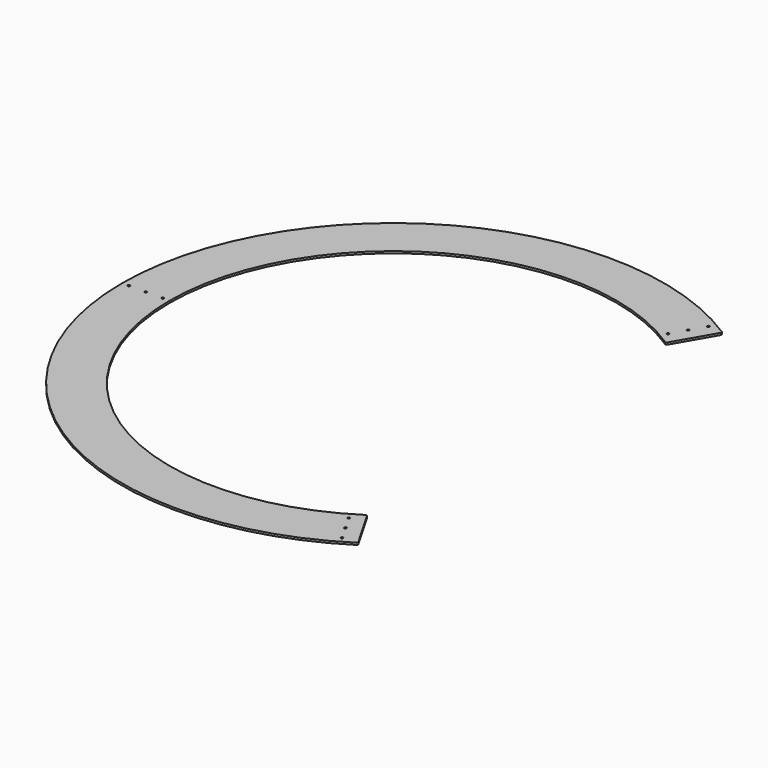
from build123d import *

# Parameters (mm, degrees)
PAD015_DEPTH             = 3
SKETCH096_R              = 1.7
POCKET062_DEPTH          = 2019.841851
POCKET062_DEPTH_BACK     = 2022.841851
POLARPATTERN017_COUNT    = 3
CLONE004_PLACEMENT_ANGLE = 90


with BuildPart() as part:
    # Sketch095 → Pad015 (new body)
    with BuildSketch(Plane.XY):
        with BuildLine():
            ThreePointArc((337.01048, -215.462146), (350.845307, 192.113432), (0, 400))
            Line((0, 330), (0, 400))
            ThreePointArc((276.422258, -180.251866), (290.157816, 157.189192), (0, 330))
            ThreePointArc((276.422258, -180.251866), (276.152366, -181.809361), (277.097544, -183.076353))
            Line((277.097544, -183.076353), (334.325427, -216.116886))
            ThreePointArc((334.325427, -216.116886), (335.799237, -216.327901), (337.01048, -215.462146))
        make_face()
    pad015 = extrude(amount=PAD015_DEPTH)

    # Mirrored026: Pad015 across Sketch095 V_Axis
    add(pad015.mirror(Plane(origin=(0, 0, 0), x_dir=(0, 0, 1), z_dir=(1, 0, 0))))

    # Sketch096 → Pocket062 (cut, two sides)
    with BuildSketch(Plane(origin=(0, 330, 0), x_dir=(1, 0, 0), z_dir=(0, 0, 1))) as pocket062_sk:
        with Locations((0, 10)):
            Circle(SKETCH096_R)
        with Locations((0, 35)):
            Circle(SKETCH096_R)
        with Locations((0, 60)):
            Circle(SKETCH096_R)
    pocket062 = extrude(amount=-POCKET062_DEPTH, mode=Mode.SUBTRACT) + extrude(pocket062_sk.sketch, amount=POCKET062_DEPTH_BACK, mode=Mode.SUBTRACT)

    # PolarPattern017: Pocket062 ×3 about axis
    polarpattern017_axis = Axis((0, 0, 0), (0, 0, 1))
    for i in range(1, POLARPATTERN017_COUNT):
        add(pocket062.rotate(polarpattern017_axis, i * 360 / POLARPATTERN017_COUNT), mode=Mode.SUBTRACT)


with BuildPart() as part_1:
    # Clone004 placement: moved
    add(part.part.moved(Location((-216.377145, 400, 0))).rotate(Axis((-216.377145, 400, 0), (0, 0, 1)), CLONE004_PLACEMENT_ANGLE))


solid = part_1.part
